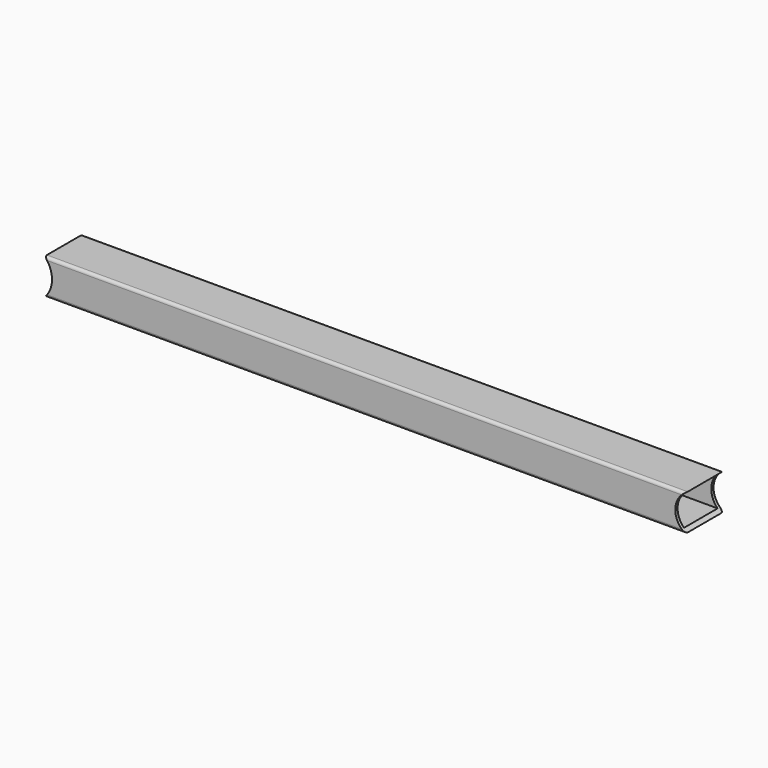
from build123d import *

# Parameters (mm, degrees)
F0_W          = 44.704
F0_H          = 32.004
F1_DEPTH      = 355.6
F2_R          = 26.9875
F2_R_2        = 22.225
F3_DEPTH      = 25.401
F3_DEPTH_BACK = 25.401


with BuildPart() as f1:
    # F0 (on Right) → F1 (new body, symmetric)
    with BuildSketch(Plane.YZ):
        with BuildLine():
            Line((22.352, 19.05), (-22.352, 19.05))
            ThreePointArc((-22.352, 19.05), (-24.5072614691, 18.1572614691), (-25.4, 16.002))
            Line((-25.4, 16.002), (-25.4, -16.002))
            ThreePointArc((-25.4, -16.002), (-24.5072614691, -18.1572614691), (-22.352, -19.05))
            Line((-22.352, -19.05), (22.352, -19.05))
            ThreePointArc((22.352, -19.05), (24.5072614691, -18.1572614691), (25.4, -16.002))
            Line((25.4, -16.002), (25.4, 16.002))
            ThreePointArc((25.4, 16.002), (24.5072614691, 18.1572614691), (22.352, 19.05))
        make_face()
        Rectangle(F0_W, F0_H, mode=Mode.SUBTRACT)
    extrude(amount=F1_DEPTH, both=True)

    # F2 (on Front) → F3 (cut, two sides)
    with BuildSketch(Plane.XZ) as f3_sk:
        with Locations((-355.6, 0)):
            Circle(F2_R)
        with Locations((355.6, 0)):
            Circle(F2_R_2)
    extrude(amount=-F3_DEPTH, mode=Mode.SUBTRACT)
    extrude(f3_sk.sketch, amount=F3_DEPTH_BACK, mode=Mode.SUBTRACT)


solid = f1.part
